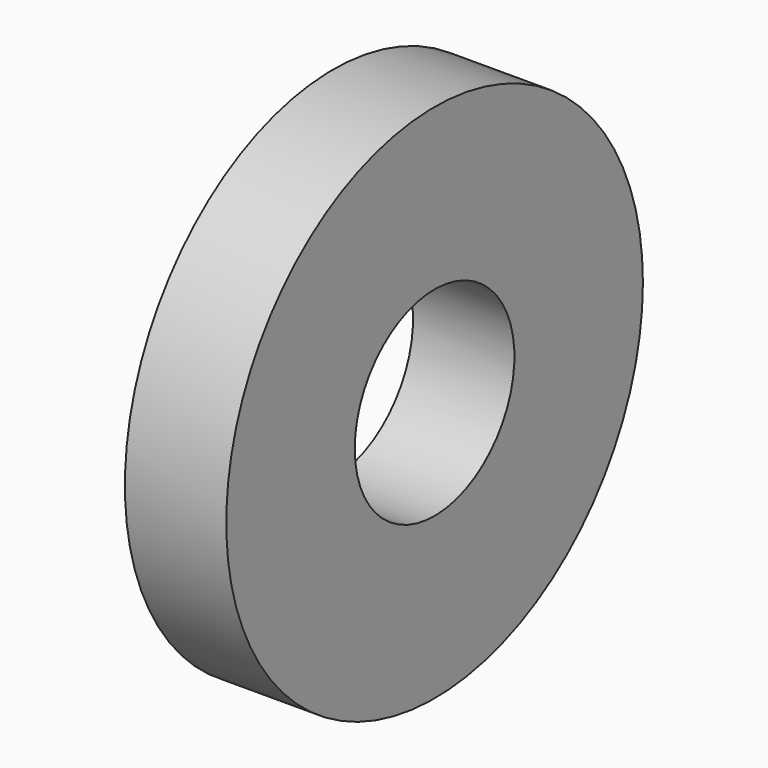
from build123d import *

# Parameters (mm, degrees)
F0_R     = 10.4394
F1_DEPTH = 4.064
F3_D     = 8


with BuildPart() as f1:
    # F0 (on Right) → F1 (new body)
    with BuildSketch(Plane.YZ):
        with Locations((0, -1.552156)):
            Circle(F0_R)
    extrude(amount=-F1_DEPTH)

    # F3 (through all)
    with Locations(Plane.YZ):
        with Locations((0, -1.552156)):
            Hole(F3_D / 2)


solid = f1.part
